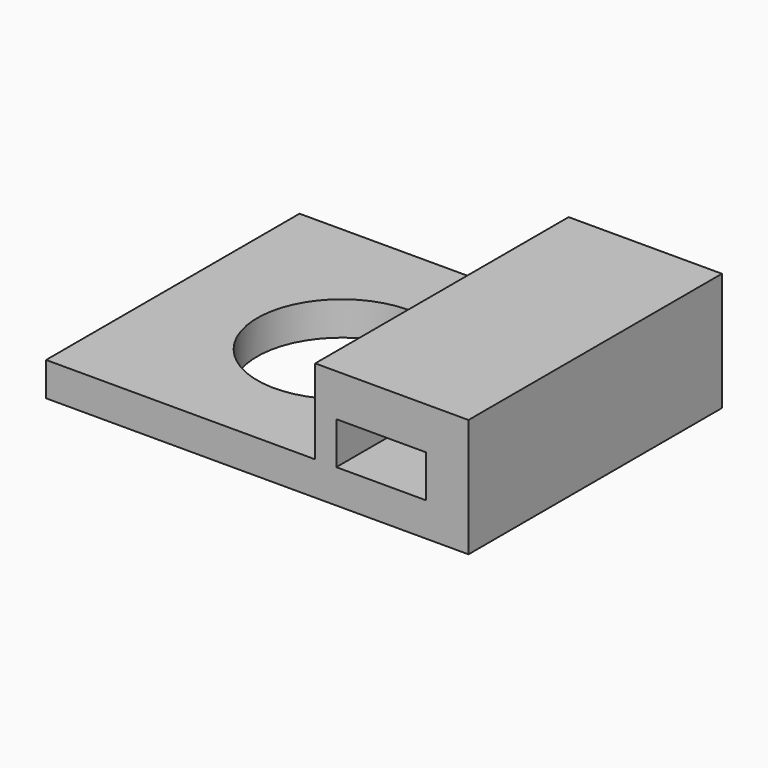
from build123d import *

# Parameters (mm, degrees)
F0_W     = 25.4
F0_H     = 19.05
F0_R     = 5.08
F1_DEPTH = 2.032
F3_DEPTH = 19.05


with BuildPart() as f1:
    # F0 (on Top) → F1 (new body)
    with BuildSketch(Plane.XY):
        Rectangle(F0_W, F0_H)
        with Locations((-2.54, 0)):
            Circle(F0_R, mode=Mode.SUBTRACT)
    extrude(amount=F1_DEPTH)

    # F2 (on face) → F3 (join, through all)
    with BuildSketch(Plane.XZ.offset(9.525)):
        Polygon((10.16, 2.032), (12.7, 2.032), (12.7, 7.112), (3.482183, 7.112), (3.482183, 2.032), (4.752183, 2.032), (4.752183, 4.572), (10.16, 4.572), align=None)
    extrude(amount=-F3_DEPTH)


solid = f1.part
